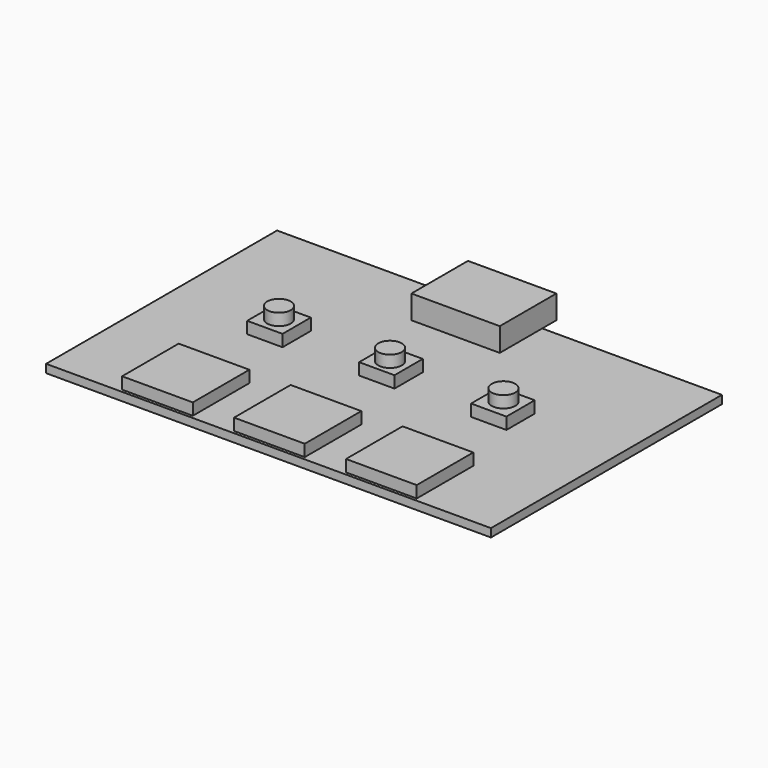
from build123d import *

# Parameters (mm, degrees)
F0_W     = 37.75
F0_H     = 24.5
F1_DEPTH = 0.7
F2_W     = 6
F2_H     = 6
F3_DEPTH = 1
F4_W     = 3
F4_H     = 3
F5_DEPTH = 1
F6_R     = 1
F7_DEPTH = 1
F8_W     = 7.5
F8_H     = 6
F9_DEPTH = 2


with BuildPart() as f1:
    # F0 (on Top) → F1 (new body)
    with BuildSketch(Plane.XY):
        with Locations((18.875, 12.25)):
            Rectangle(F0_W, F0_H)
    extrude(amount=F1_DEPTH)

    # F2 (on face) → F3 (join)
    with BuildSketch(Plane.XY.offset(0.7)):
        with Locations((9.25, 3.25)):
            Rectangle(F2_W, F2_H)
        with Locations((18.75, 3.25)):
            Rectangle(F2_W, F2_H)
        with Locations((28.25, 3.25)):
            Rectangle(F2_W, F2_H)
    extrude(amount=F3_DEPTH)

    # F4 (on face) → F5 (join)
    with BuildSketch(Plane.XY.offset(0.7)):
        with Locations((9.25, 13.142036)):
            Rectangle(F4_W, F4_H)
        with Locations((18.75, 13.142036)):
            Rectangle(F4_W, F4_H)
        with Locations((28.25, 13.142036)):
            Rectangle(F4_W, F4_H)
    extrude(amount=F5_DEPTH)

    # F6 (on face) → F7 (join)
    with BuildSketch(Plane.XY.offset(1.7)):
        with Locations((9.25, 13.142036)):
            Circle(F6_R)
        with Locations((18.75, 13.046024)):
            Circle(F6_R)
        with Locations((28.25, 13.203288)):
            Circle(F6_R)
    extrude(amount=F7_DEPTH)

    # F8 (on face) → F9 (join)
    with BuildSketch(Plane.XY.offset(0.7)):
        with Locations((18.75, 23)):
            Rectangle(F8_W, F8_H)
        with Locations((18.75, 23)):
            Rectangle(F8_W, F8_H)
    extrude(amount=F9_DEPTH)


solid = f1.part
